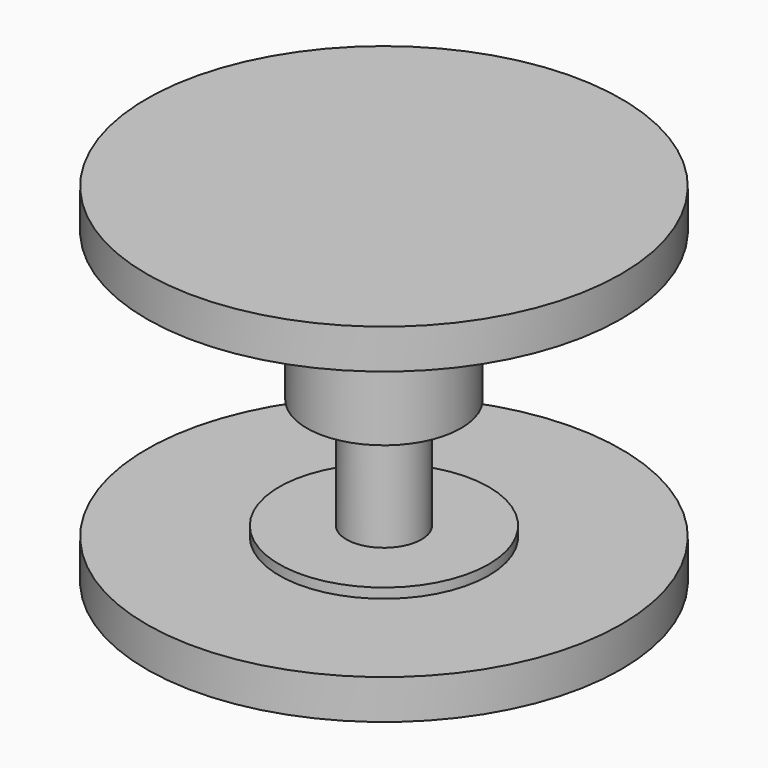
from build123d import *


with BuildPart() as f1:
    # F0 (on Front) → F1 (revolve)
    with BuildSketch(Plane.XZ):
        Polygon((12, 37.560481), (12, 39.560481), (0, 39.560481), (0, 38.348235), (0, 34.810481), (2, 34.810481), (2, 30.060481), (3.9, 30.060481), (3.9, 37.060481), (5.3, 37.060481), (5.3, 37.560481), align=None)
    revolve(axis=Axis((0, 0, 36.579358), (0, 0, 1)))

    # F0 (on Front) → F2 (revolve)
    with BuildSketch(Plane.XZ):
        Polygon((12, 37.560481), (12, 39.560481), (0, 39.560481), (0, 38.348235), (0, 34.810481), (2, 34.810481), (2, 30.060481), (3.9, 30.060481), (3.9, 37.060481), (5.3, 37.060481), (5.3, 37.560481), align=None)
        Polygon((1.9, 29.107835), (0, 29.107835), (0, 21.957835), (12, 21.957835), (12, 23.957835), (5.3, 23.957835), (5.3, 24.457835), (1.9, 24.457835), align=None)
    revolve(axis=Axis((0, 0, 30.060481), (0, 0, 1)))


solid = f1.part
